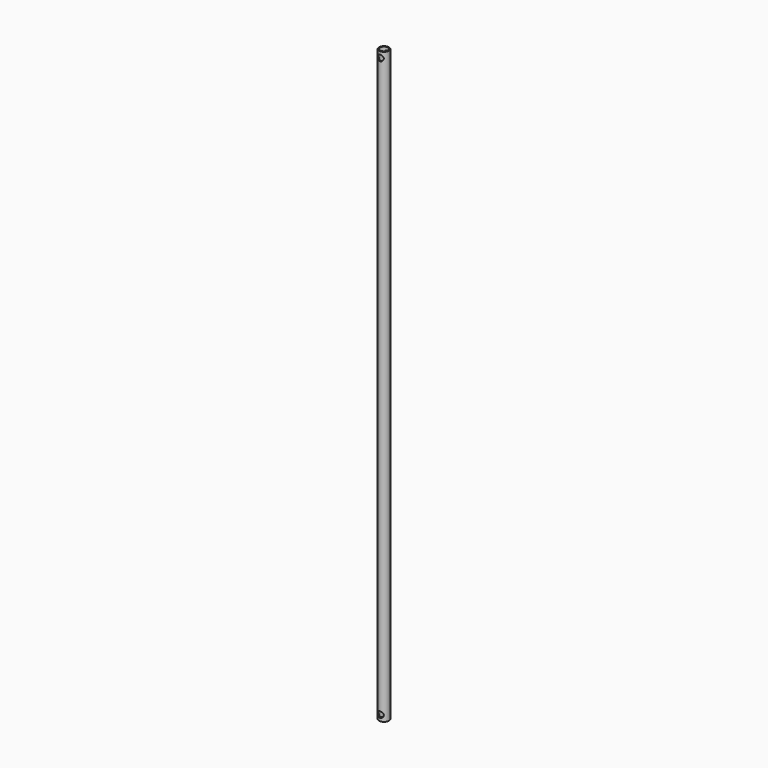
from build123d import *

# Parameters (mm, degrees)
F0_R     = 5
F0_R_2   = 4
F1_DEPTH = 600
F3_D     = 6
F3_DEPTH = 5.001
F4_D     = 6


with BuildPart() as f1:
    # F0 (on Top) → F1 (new body)
    with BuildSketch(Plane.XY):
        Circle(F0_R)
        Circle(F0_R_2, mode=Mode.SUBTRACT)
    extrude(amount=F1_DEPTH)

    # F3 (through all, one way)
    with BuildSketch(Plane(origin=(0, 0, 0), x_dir=(1, 0, 0), z_dir=(0, 1, 0))):
        with Locations((0, -6), (0, -594)):
            Circle(F3_D / 2)
    extrude(amount=-F3_DEPTH, mode=Mode.SUBTRACT)

    # F4 (through all)
    with Locations(Plane.XZ):
        with Locations((0, 594), (0, 6)):
            Hole(F4_D / 2)


solid = f1.part
